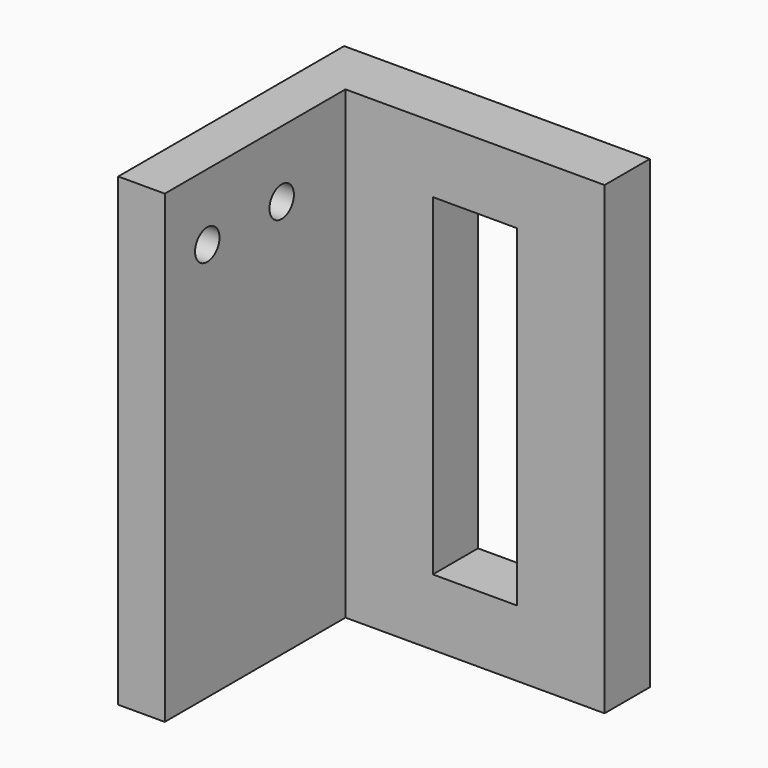
from build123d import *

# Parameters (mm, degrees)
F0_W     = 23
F0_H     = 35
F1_DEPTH = 4.25
F2_W     = 3.5
F2_H     = 35
F3_DEPTH = 17
F4_W     = 6.35
F4_H     = 25
F5_DEPTH = 4.251
F6_R     = 1.15
F7_DEPTH = 3.501


with BuildPart() as f1:
    # F0 (on Front) → F1 (new body)
    with BuildSketch(Plane.XZ):
        with Locations((0.065487, 0)):
            Rectangle(F0_W, F0_H)
    extrude(amount=-F1_DEPTH)

    # F2 (on face) → F3 (join)
    with BuildSketch(Plane.XZ):
        with Locations((-9.684513, 0)):
            Rectangle(F2_W, F2_H)
    extrude(amount=F3_DEPTH)

    # F4 (on face) → F5 (cut, through all)
    with BuildSketch(Plane.XZ):
        with Locations((1.815487, 0)):
            Rectangle(F4_W, F4_H)
    extrude(amount=-F5_DEPTH, mode=Mode.SUBTRACT)

    # F6 (on face) → F7 (cut, through all)
    with BuildSketch(Plane.YZ.offset(-7.934513)):
        with Locations((-13, 12.5)):
            Circle(F6_R)
        with Locations((-6, 12.5)):
            Circle(F6_R)
    extrude(amount=-F7_DEPTH, mode=Mode.SUBTRACT)


solid = f1.part
